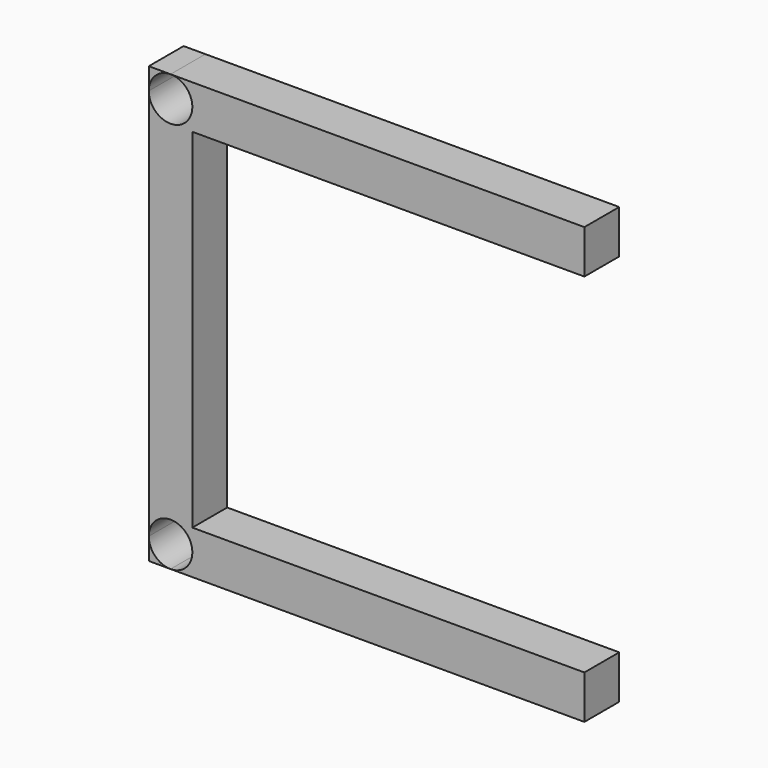
from build123d import *

# Parameters (mm, degrees)
F1_DEPTH = 101.6


with BuildPart() as f1:
    # F0 (on Front) → F1 (new body)
    with BuildSketch(Plane.XZ):
        with BuildLine():
            Line((416.9716343101, 500.1409003437), (-548.2283656899, 500.1409003437))
            ThreePointArc((-548.2283656899, 500.1409003437), (-512.3073412056, 485.2619248279), (-497.4283656899, 449.3409003437))
            ThreePointArc((-497.4283656899, 449.3409003437), (-512.3073412056, 413.4198758594), (-548.2283656899, 398.5409003437))
            Line((-548.2283656899, 398.5409003437), (-497.4283656899, 398.5409003437))
            Line((-497.4283656899, 398.5409003437), (416.9716343101, 398.5409003437))
            Line((416.9716343101, 398.5409003437), (416.9716343101, 500.1409003437))
        make_face()
        with BuildLine():
            ThreePointArc((-548.2283656899, 398.5409003437), (-584.1493901742, 413.4198758594), (-599.0283656899, 449.3409003437))
            Line((-599.0283656899, 449.3409003437), (-599.0283656899, 398.5409003437))
            Line((-599.0283656899, 398.5409003437), (-548.2283656899, 398.5409003437))
        make_face()
        Polygon((-548.2283656899, 398.5409003437), (-599.0283656899, 398.5409003437), (-599.0283656899, -414.2590996563), (-548.2283656899, -414.2590996563), (-497.4283656899, -414.2590996563), (-497.4283656899, 398.5409003437), align=None)
        with BuildLine():
            Line((-497.4283656899, -414.2590996563), (-548.2283656899, -414.2590996563))
            ThreePointArc((-548.2283656899, -414.2590996563), (-512.3073412056, -429.1380751721), (-497.4283656899, -465.0590996563))
            ThreePointArc((-497.4283656899, -465.0590996563), (-512.3073412056, -500.9801241406), (-548.2283656899, -515.8590996563))
            Line((-548.2283656899, -515.8590996563), (416.9716343101, -515.8590996563))
            Line((416.9716343101, -515.8590996563), (416.9716343101, -414.2590996563))
            Line((416.9716343101, -414.2590996563), (-497.4283656899, -414.2590996563))
        make_face()
        with BuildLine():
            Line((-548.2283656899, -414.2590996563), (-599.0283656899, -414.2590996563))
            Line((-599.0283656899, -414.2590996563), (-599.0283656899, -465.0590996563))
            ThreePointArc((-599.0283656899, -465.0590996563), (-584.1493901742, -429.1380751721), (-548.2283656899, -414.2590996563))
        make_face()
    extrude(amount=F1_DEPTH)


with BuildPart() as f1b:
    # F0 (on Front) → F1, piece 2 (new body)
    with BuildSketch(Plane.XZ):
        with BuildLine():
            Line((-548.2283656899, 500.1409003437), (-599.0283656899, 500.1409003437))
            Line((-599.0283656899, 500.1409003437), (-599.0283656899, 449.3409003437))
            ThreePointArc((-599.0283656899, 449.3409003437), (-584.1493901742, 485.2619248279), (-548.2283656899, 500.1409003437))
        make_face()
    extrude(amount=F1_DEPTH)


with BuildPart() as f1c:
    # F0 (on Front) → F1, piece 3 (new body)
    with BuildSketch(Plane.XZ):
        with BuildLine():
            ThreePointArc((-548.2283656899, -515.8590996563), (-584.1493901742, -500.9801241406), (-599.0283656899, -465.0590996563))
            Line((-599.0283656899, -465.0590996563), (-599.0283656899, -515.8590996563))
            Line((-599.0283656899, -515.8590996563), (-548.2283656899, -515.8590996563))
        make_face()
    extrude(amount=F1_DEPTH)


solid = Compound([f1.part, f1b.part, f1c.part])
